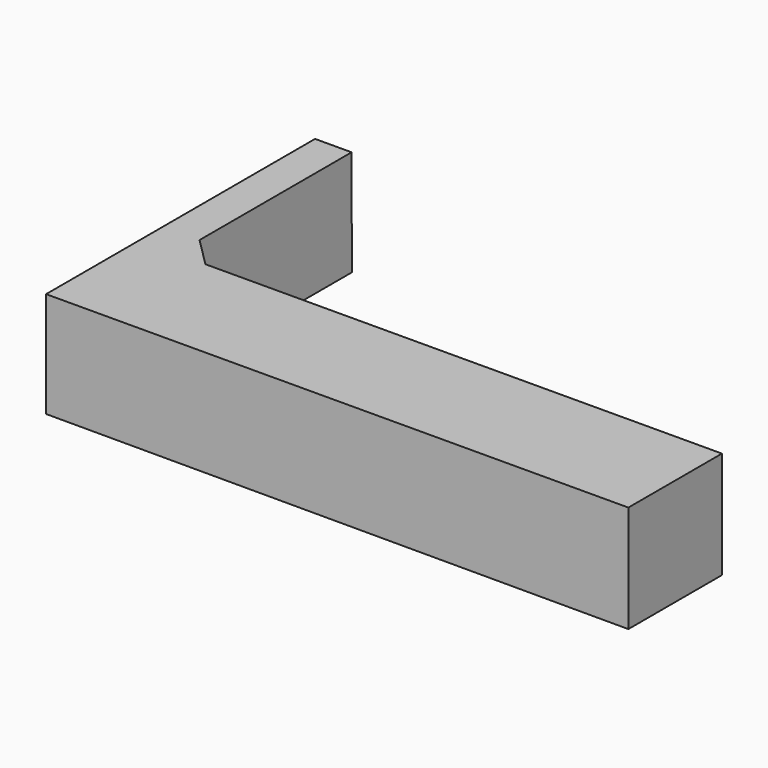
from build123d import *

# Parameters (mm, degrees)
F2_W     = 3505.2
F2_H     = 1100.328
F0_W     = 3505.2
F0_H     = 1130.808
F5_DEPTH = 1129.8540878931
F7_W     = 3505.2
F7_H     = 1371.6
F8_DEPTH = 6045.0994001


with BuildPart() as f3:
    # F2 (on offset) → F3 section 0
    with BuildSketch(Plane.YZ.offset(-12115.8)):
        with Locations((1752.6, 717.804)):
            Rectangle(F2_W, F2_H)
    # F0 (on Right) → F3 section 1
    with BuildSketch(Plane.YZ):
        with Locations((1752.6, 733.044)):
            Rectangle(F0_W, F0_H)
    loft()

    # F4 (on face) → F5 (cut, through all)
    with BuildSketch(Plane(origin=(-3.2665151757, 0, 1298.4397823518), x_dir=(0.9999968356, 0, 0.0025157153), z_dir=(-0.0025157153, 0, 0.9999968356))):
        Polygon((-377.7334744876, 3505.2), (-11731.5718140496, 3505.2), (-11731.5718140496, 1524), (-11426.7718140496, 1219.2), (-682.5334744876, 1219.2), (-377.7334744876, 1524), align=None)
    extrude(amount=-F5_DEPTH, mode=Mode.SUBTRACT)

    # F7 (on offset) → F8 (cut, through all)
    with BuildSketch(Plane.YZ.offset(-6045.0984)):
        with Locations((1752.6, 685.8)):
            Rectangle(F7_W, F7_H)
    extrude(amount=F8_DEPTH, mode=Mode.SUBTRACT)


solid = f3.part
